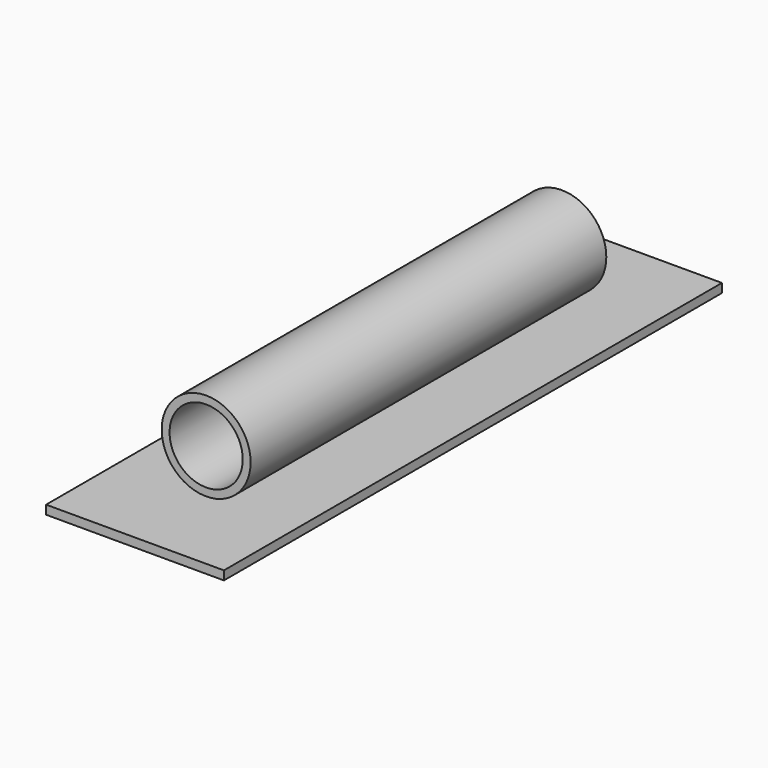
from build123d import *

# Parameters (mm, degrees)
F0_R     = 12.7
F0_R_2   = 10.45231
F1_DEPTH = 127
F3_W     = 50.8
F3_H     = 177.8
F4_DEPTH = 2.54


with BuildPart() as f1:
    # F0 (on Front) → F1 (new body)
    with BuildSketch(Plane.XZ):
        Circle(F0_R)
        Circle(F0_R_2, mode=Mode.SUBTRACT)
    extrude(amount=F1_DEPTH)


with BuildPart() as f1_1:
    # F2: moved
    add(f1.part.moved(Location((0, 0, 12.7))))


with BuildPart() as f4:
    # F3 (on Top) → F4 (new body)
    with BuildSketch(Plane.XY):
        with Locations((0, -63.5)):
            Rectangle(F3_W, F3_H)
    extrude(amount=-F4_DEPTH)


solid = Compound([f1_1.part, f4.part])
